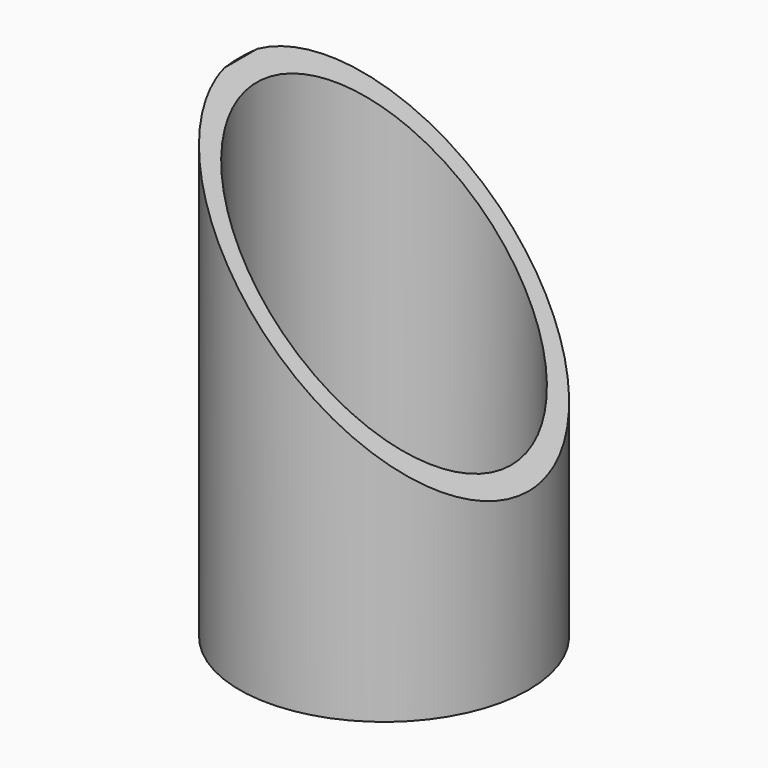
from build123d import *

# Parameters (mm, degrees)
F0_R     = 25
F0_R_2   = 22
F1_DEPTH = 80
F3_DEPTH = 40


with BuildPart() as f1:
    # F0 (on Top) → F1 (new body)
    with BuildSketch(Plane.XY):
        Circle(F0_R)
        Circle(F0_R_2, mode=Mode.SUBTRACT)
    extrude(amount=F1_DEPTH)

    # F2 (on Front) → F3 (cut, symmetric)
    with BuildSketch(Plane.XZ):
        Polygon((25.077423, 80.174021), (-24.922577, 80.174021), (25.077423, 30.174021), align=None)
    extrude(amount=F3_DEPTH, both=True, mode=Mode.SUBTRACT)


solid = f1.part
